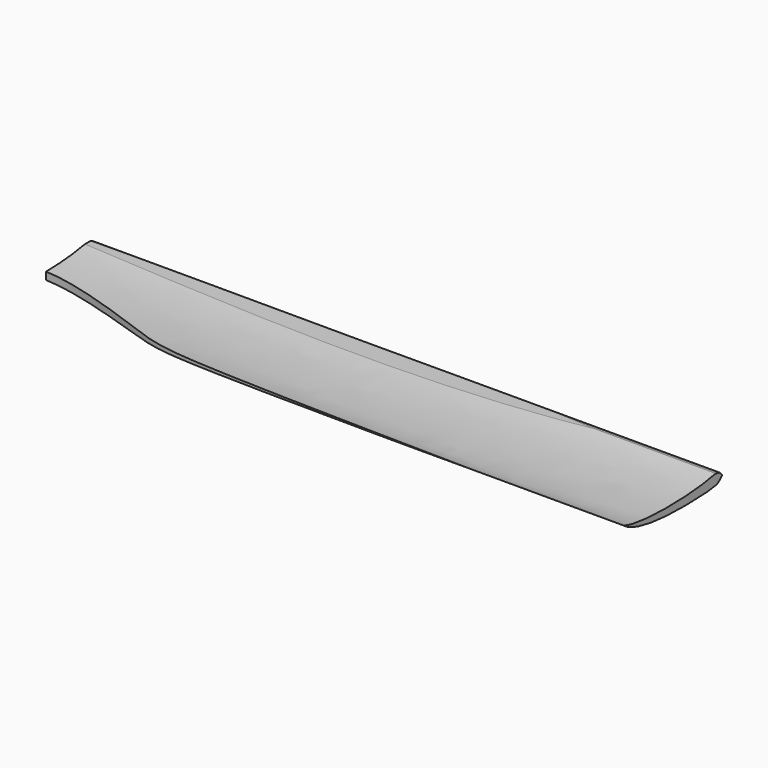
from build123d import *

# Parameters (mm, degrees)
F0_W      = 250
F0_H      = 10
F1_DEPTH  = 50
F3_DEPTH  = 30
F5_DEPTH  = 250
F7_DEPTH  = 250
F8_DEPTH  = 60
F10_DEPTH = 25
F11_DEPTH = 60


with BuildPart() as f1:
    # F0 (on Front) → F1 (new body)
    with BuildSketch(Plane.XZ):
        with Locations((-125, -0.8841458522)):
            Rectangle(F0_W, F0_H)
    extrude(amount=F1_DEPTH)

    # F2 (on Front) → F3 (cut)
    with BuildSketch(Plane.XZ):
        with BuildLine():
            Line((-313.2871612906, 5.0173905069), (-313.2871612906, 0))
            add(Edge.make_bspline(
                [(-313.2871612906, 0), (-305.7408024233, 0.2490956721), (-53.1240111215, -4.4060569761), (63.1468826879, 9.0389913046), (-305.0592132912, 4.2141648523), (-313.2871612906, 5.0173905069)],
                knots=[0, 0, 0, 0, 0.4110714895, 0.5621074239, 0.9930860809, 0.9930860809, 0.9930860809, 0.9930860809], degree=3))
        make_face()
        with BuildLine():
            add(Edge.make_bspline(
                [(-313.2871612906, 5.0173905069), (-313.4191570769, 5.0302761501), (-313.4831006394, 5.044287986), (-313.4769124275, 5.0594728428)],
                knots=[0.9930860809, 0.9930860809, 0.9930860809, 0.9930860809, 1, 1, 1, 1], degree=3))
            Line((-313.2871612906, 5.0173905069), (-313.2871612906, 8.698137477))
            Line((-313.2871612906, 8.698137477), (-313.4769124275, 5.0594728428))
        make_face()
    extrude(amount=F3_DEPTH, mode=Mode.SUBTRACT)

    # F4 (on Right) → F5 (intersect)
    with BuildSketch(Plane.YZ):
        with BuildLine():
            Line((0.5672006129, -1.3385175809), (0.1652306632, 0.2717507569))
            add(Edge.make_bspline(
                [(0.1652306632, 0.2717507569), (-3.0391772862, -0.1480424546), (-12.0919650314, -2.8128463431), (-42.1130539169, -2.9590662558), (-49.4042519617, 0)],
                knots=[0, 0, 0, 0, 0.3735616657, 1, 1, 1, 1], degree=3))
            add(Edge.make_bspline(
                [(0.6500760171, -3.4983696098), (-2.7817302159, -4.6583340632), (-10.9384602329, -5.8049870315), (-42.3045310889, -5.708930743), (-49.4042519617, 0)],
                knots=[0, 0, 0, 0, 0.3661243195, 1, 1, 1, 1], degree=3))
            Line((0.6500760171, -3.4983696098), (0.5672006129, -1.3385175809))
        make_face()
    extrude(amount=-F5_DEPTH, mode=Mode.INTERSECT)

    # F6 (on Right) → F7 (cut)
    with BuildSketch(Plane.YZ):
        with BuildLine():
            add(Edge.make_bspline(
                [(-0.3713592388, -2.284798827), (-0.2241532093, -2.2148044468), (-0.0823320886, -2.24440747), (0, -2.1551709748)],
                knots=[0.8126011445, 0.8126011445, 0.8126011445, 0.8126011445, 1, 1, 1, 1], degree=3))
            add(Edge.make_bspline(
                [(0, -2.1551709748), (-0.329754515, -2.1314787293), (-0.7120324277, -1.8268609189), (-0.9275754571, -1.5570607049)],
                knots=[0, 0, 0, 0, 0.1014973216, 0.1014973216, 0.1014973216, 0.1014973216], degree=3))
            add(Edge.make_bspline(
                [(-0.5537458841, -2.0746981376), (-0.6252984398, -1.9910490784), (-0.6912669675, -1.7880899452), (-0.8970043195, -1.6468032305), (-0.9275754571, -1.5570607049)],
                knots=[0.3180376428, 0.3180376428, 0.3180376428, 0.3180376428, 0.6602872495, 1, 1, 1, 1], degree=3))
            add(Edge.make_bspline(
                [(-0.3713592388, -2.284798827), (-0.3875660997, -2.2144380571), (-0.4872552126, -2.1524295626), (-0.5537458841, -2.0746981376)],
                knots=[0, 0, 0, 0, 0.3180376428, 0.3180376428, 0.3180376428, 0.3180376428], degree=3))
        make_face()
        with BuildLine():
            add(Edge.make_bspline(
                [(0, -2.1551709748), (0.0470843515, -2.1525380743), (0.0954787204, -2.1497884688), (0.1445713973, -2.1472855941)],
                knots=[0, 0, 0, 0, 0.0270402164, 0.0270402164, 0.0270402164, 0.0270402164], degree=3))
            add(Edge.make_bspline(
                [(0.1445713973, -2.1472855941), (0.0972920511, -2.1559836171), (0.0492313889, -2.1587081581), (0, -2.1551709748)],
                knots=[0.9848467454, 0.9848467454, 0.9848467454, 0.9848467454, 1, 1, 1, 1], degree=3))
        make_face()
        with BuildLine():
            add(Edge.make_bspline(
                [(0.1445713973, -2.1472855941), (0.0972920511, -2.1559836171), (0.0492313889, -2.1587081581), (0, -2.1551709748)],
                knots=[0.9848467454, 0.9848467454, 0.9848467454, 0.9848467454, 1, 1, 1, 1], degree=3))
            add(Edge.make_bspline(
                [(-0.3713592388, -2.284798827), (-0.2241532093, -2.2148044468), (-0.0823320886, -2.24440747), (0, -2.1551709748)],
                knots=[0.8126011445, 0.8126011445, 0.8126011445, 0.8126011445, 1, 1, 1, 1], degree=3))
            add(Edge.make_bspline(
                [(-0.4921774922, -2.3621015913), (-0.4512225519, -2.3298430813), (-0.4110947157, -2.3036924829), (-0.3713592388, -2.284798827)],
                knots=[0.7620163762, 0.7620163762, 0.7620163762, 0.7620163762, 0.8126011445, 0.8126011445, 0.8126011445, 0.8126011445], degree=3))
            add(Edge.make_bspline(
                [(-3.1840484364, -4.6814284005), (-3.0055224359, -4.4249821283), (-1.4635640249, -3.672642383), (-0.7639363061, -2.5761547519), (-0.4921774922, -2.3621015913)],
                knots=[0, 0, 0, 0, 0.4263582957, 0.7620163762, 0.7620163762, 0.7620163762, 0.7620163762], degree=3))
            add(Edge.make_bspline(
                [(0.1445713973, -2.1472855941), (0.4781031282, -2.1302812627), (1.1300747826, -2.1202709661), (1.4167482192, -2.8884793386), (-0.5860592872, -4.3606955567), (-2.8324278052, -4.9287898784), (-3.1840484364, -4.6814284005)],
                knots=[0.0270402164, 0.0270402164, 0.0270402164, 0.0270402164, 0.2107492894, 0.3545004907, 0.6749045556, 1, 1, 1, 1], degree=3))
        make_face()
        with BuildLine():
            add(Edge.make_bspline(
                [(0, -2.1551709748), (-0.329754515, -2.1314787293), (-0.7120324277, -1.8268609189), (-0.9275754571, -1.5570607049)],
                knots=[0, 0, 0, 0, 0.1014973216, 0.1014973216, 0.1014973216, 0.1014973216], degree=3))
            add(Edge.make_bspline(
                [(0, -2.1551709748), (0.0470843515, -2.1525380743), (0.0954787204, -2.1497884688), (0.1445713973, -2.1472855941)],
                knots=[0, 0, 0, 0, 0.0270402164, 0.0270402164, 0.0270402164, 0.0270402164], degree=3))
            add(Edge.make_bspline(
                [(-0.9275754571, -1.5570607049), (-1.122131781, -1.3135300375), (-1.2849738501, -0.7167346625), (-5.9739971148, -0.3185463772), (-1.2349744114, 2.4740546969), (3.3251523519, 2.2599980845), (1.1921011598, -1.2647816461), (0.4471431263, -2.091621206), (0.1445713973, -2.1472855941)],
                knots=[0.1014973216, 0.1014973216, 0.1014973216, 0.1014973216, 0.1931121877, 0.3556083607, 0.5385432189, 0.7178468592, 0.8878710721, 0.9848467454, 0.9848467454, 0.9848467454, 0.9848467454], degree=3))
        make_face()
        with BuildLine():
            add(Edge.make_bspline(
                [(-0.4921774922, -2.3621015913), (-0.4512225519, -2.3298430813), (-0.4110947157, -2.3036924829), (-0.3713592388, -2.284798827)],
                knots=[0.7620163762, 0.7620163762, 0.7620163762, 0.7620163762, 0.8126011445, 0.8126011445, 0.8126011445, 0.8126011445], degree=3))
            add(Edge.make_bspline(
                [(-0.3713592388, -2.284798827), (-0.3875660997, -2.2144380571), (-0.4872552126, -2.1524295626), (-0.5537458841, -2.0746981376)],
                knots=[0, 0, 0, 0, 0.3180376428, 0.3180376428, 0.3180376428, 0.3180376428], degree=3))
            Line((-0.5537458841, -2.0746981376), (-0.4921774922, -2.3621015913))
        make_face()
    extrude(amount=-F7_DEPTH, mode=Mode.SUBTRACT)

    # F6 (on Right) → F8 (cut)
    with BuildSketch(Plane.YZ):
        with BuildLine():
            add(Edge.make_bspline(
                [(-0.3713592388, -2.284798827), (-0.2241532093, -2.2148044468), (-0.0823320886, -2.24440747), (0, -2.1551709748)],
                knots=[0.8126011445, 0.8126011445, 0.8126011445, 0.8126011445, 1, 1, 1, 1], degree=3))
            add(Edge.make_bspline(
                [(0, -2.1551709748), (-0.329754515, -2.1314787293), (-0.7120324277, -1.8268609189), (-0.9275754571, -1.5570607049)],
                knots=[0, 0, 0, 0, 0.1014973216, 0.1014973216, 0.1014973216, 0.1014973216], degree=3))
            add(Edge.make_bspline(
                [(-0.5537458841, -2.0746981376), (-0.6252984398, -1.9910490784), (-0.6912669675, -1.7880899452), (-0.8970043195, -1.6468032305), (-0.9275754571, -1.5570607049)],
                knots=[0.3180376428, 0.3180376428, 0.3180376428, 0.3180376428, 0.6602872495, 1, 1, 1, 1], degree=3))
            add(Edge.make_bspline(
                [(-0.3713592388, -2.284798827), (-0.3875660997, -2.2144380571), (-0.4872552126, -2.1524295626), (-0.5537458841, -2.0746981376)],
                knots=[0, 0, 0, 0, 0.3180376428, 0.3180376428, 0.3180376428, 0.3180376428], degree=3))
        make_face()
        with BuildLine():
            add(Edge.make_bspline(
                [(0, -2.1551709748), (0.0470843515, -2.1525380743), (0.0954787204, -2.1497884688), (0.1445713973, -2.1472855941)],
                knots=[0, 0, 0, 0, 0.0270402164, 0.0270402164, 0.0270402164, 0.0270402164], degree=3))
            add(Edge.make_bspline(
                [(0.1445713973, -2.1472855941), (0.0972920511, -2.1559836171), (0.0492313889, -2.1587081581), (0, -2.1551709748)],
                knots=[0.9848467454, 0.9848467454, 0.9848467454, 0.9848467454, 1, 1, 1, 1], degree=3))
        make_face()
        with BuildLine():
            add(Edge.make_bspline(
                [(0.1445713973, -2.1472855941), (0.0972920511, -2.1559836171), (0.0492313889, -2.1587081581), (0, -2.1551709748)],
                knots=[0.9848467454, 0.9848467454, 0.9848467454, 0.9848467454, 1, 1, 1, 1], degree=3))
            add(Edge.make_bspline(
                [(-0.3713592388, -2.284798827), (-0.2241532093, -2.2148044468), (-0.0823320886, -2.24440747), (0, -2.1551709748)],
                knots=[0.8126011445, 0.8126011445, 0.8126011445, 0.8126011445, 1, 1, 1, 1], degree=3))
            add(Edge.make_bspline(
                [(-0.4921774922, -2.3621015913), (-0.4512225519, -2.3298430813), (-0.4110947157, -2.3036924829), (-0.3713592388, -2.284798827)],
                knots=[0.7620163762, 0.7620163762, 0.7620163762, 0.7620163762, 0.8126011445, 0.8126011445, 0.8126011445, 0.8126011445], degree=3))
            add(Edge.make_bspline(
                [(-3.1840484364, -4.6814284005), (-3.0055224359, -4.4249821283), (-1.4635640249, -3.672642383), (-0.7639363061, -2.5761547519), (-0.4921774922, -2.3621015913)],
                knots=[0, 0, 0, 0, 0.4263582957, 0.7620163762, 0.7620163762, 0.7620163762, 0.7620163762], degree=3))
            add(Edge.make_bspline(
                [(0.1445713973, -2.1472855941), (0.4781031282, -2.1302812627), (1.1300747826, -2.1202709661), (1.4167482192, -2.8884793386), (-0.5860592872, -4.3606955567), (-2.8324278052, -4.9287898784), (-3.1840484364, -4.6814284005)],
                knots=[0.0270402164, 0.0270402164, 0.0270402164, 0.0270402164, 0.2107492894, 0.3545004907, 0.6749045556, 1, 1, 1, 1], degree=3))
        make_face()
        with BuildLine():
            add(Edge.make_bspline(
                [(0, -2.1551709748), (-0.329754515, -2.1314787293), (-0.7120324277, -1.8268609189), (-0.9275754571, -1.5570607049)],
                knots=[0, 0, 0, 0, 0.1014973216, 0.1014973216, 0.1014973216, 0.1014973216], degree=3))
            add(Edge.make_bspline(
                [(0, -2.1551709748), (0.0470843515, -2.1525380743), (0.0954787204, -2.1497884688), (0.1445713973, -2.1472855941)],
                knots=[0, 0, 0, 0, 0.0270402164, 0.0270402164, 0.0270402164, 0.0270402164], degree=3))
            add(Edge.make_bspline(
                [(-0.9275754571, -1.5570607049), (-1.122131781, -1.3135300375), (-1.2849738501, -0.7167346625), (-5.9739971148, -0.3185463772), (-1.2349744114, 2.4740546969), (3.3251523519, 2.2599980845), (1.1921011598, -1.2647816461), (0.4471431263, -2.091621206), (0.1445713973, -2.1472855941)],
                knots=[0.1014973216, 0.1014973216, 0.1014973216, 0.1014973216, 0.1931121877, 0.3556083607, 0.5385432189, 0.7178468592, 0.8878710721, 0.9848467454, 0.9848467454, 0.9848467454, 0.9848467454], degree=3))
        make_face()
        with BuildLine():
            add(Edge.make_bspline(
                [(-0.4921774922, -2.3621015913), (-0.4512225519, -2.3298430813), (-0.4110947157, -2.3036924829), (-0.3713592388, -2.284798827)],
                knots=[0.7620163762, 0.7620163762, 0.7620163762, 0.7620163762, 0.8126011445, 0.8126011445, 0.8126011445, 0.8126011445], degree=3))
            add(Edge.make_bspline(
                [(-0.3713592388, -2.284798827), (-0.3875660997, -2.2144380571), (-0.4872552126, -2.1524295626), (-0.5537458841, -2.0746981376)],
                knots=[0, 0, 0, 0, 0.3180376428, 0.3180376428, 0.3180376428, 0.3180376428], degree=3))
            Line((-0.5537458841, -2.0746981376), (-0.4921774922, -2.3621015913))
        make_face()
    extrude(amount=-F8_DEPTH, mode=Mode.SUBTRACT)

    # F9 (on Top) → F10 (cut)
    with BuildSketch(Plane.XY):
        with BuildLine():
            add(Edge.make_bspline(
                [(-56.8262115121, -50.0726350397), (-54.0441875705, -48.7490632239), (-187.4004746082, -46.842235401), (-199.3512918879, -37.8274652783), (-273.5120374225, -13.0599144802), (-252.6334265377, -49.7966928991), (-249.180515691, -52.7649299347), (-237.7654494775, -53.9858025132), (-60.2588532543, -51.7057438695), (-56.8262115121, -50.0726350397)],
                knots=[0, 0, 0, 0, 0.2258560561, 0.3506417657, 0.4998497255, 0.6002929057, 0.6426859144, 0.7213241359, 1, 1, 1, 1], degree=3))
        make_face()
    extrude(amount=-F10_DEPTH, mode=Mode.SUBTRACT)

    # F6 (on Right) → F11 (cut)
    with BuildSketch(Plane.YZ):
        with BuildLine():
            add(Edge.make_bspline(
                [(-0.3713592388, -2.284798827), (-0.2241532093, -2.2148044468), (-0.0823320886, -2.24440747), (0, -2.1551709748)],
                knots=[0.8126011445, 0.8126011445, 0.8126011445, 0.8126011445, 1, 1, 1, 1], degree=3))
            add(Edge.make_bspline(
                [(0, -2.1551709748), (-0.329754515, -2.1314787293), (-0.7120324277, -1.8268609189), (-0.9275754571, -1.5570607049)],
                knots=[0, 0, 0, 0, 0.1014973216, 0.1014973216, 0.1014973216, 0.1014973216], degree=3))
            add(Edge.make_bspline(
                [(-0.5537458841, -2.0746981376), (-0.6252984398, -1.9910490784), (-0.6912669675, -1.7880899452), (-0.8970043195, -1.6468032305), (-0.9275754571, -1.5570607049)],
                knots=[0.3180376428, 0.3180376428, 0.3180376428, 0.3180376428, 0.6602872495, 1, 1, 1, 1], degree=3))
            add(Edge.make_bspline(
                [(-0.3713592388, -2.284798827), (-0.3875660997, -2.2144380571), (-0.4872552126, -2.1524295626), (-0.5537458841, -2.0746981376)],
                knots=[0, 0, 0, 0, 0.3180376428, 0.3180376428, 0.3180376428, 0.3180376428], degree=3))
        make_face()
        with BuildLine():
            add(Edge.make_bspline(
                [(0, -2.1551709748), (0.0470843515, -2.1525380743), (0.0954787204, -2.1497884688), (0.1445713973, -2.1472855941)],
                knots=[0, 0, 0, 0, 0.0270402164, 0.0270402164, 0.0270402164, 0.0270402164], degree=3))
            add(Edge.make_bspline(
                [(0.1445713973, -2.1472855941), (0.0972920511, -2.1559836171), (0.0492313889, -2.1587081581), (0, -2.1551709748)],
                knots=[0.9848467454, 0.9848467454, 0.9848467454, 0.9848467454, 1, 1, 1, 1], degree=3))
        make_face()
        with BuildLine():
            add(Edge.make_bspline(
                [(0.1445713973, -2.1472855941), (0.0972920511, -2.1559836171), (0.0492313889, -2.1587081581), (0, -2.1551709748)],
                knots=[0.9848467454, 0.9848467454, 0.9848467454, 0.9848467454, 1, 1, 1, 1], degree=3))
            add(Edge.make_bspline(
                [(-0.3713592388, -2.284798827), (-0.2241532093, -2.2148044468), (-0.0823320886, -2.24440747), (0, -2.1551709748)],
                knots=[0.8126011445, 0.8126011445, 0.8126011445, 0.8126011445, 1, 1, 1, 1], degree=3))
            add(Edge.make_bspline(
                [(-0.4921774922, -2.3621015913), (-0.4512225519, -2.3298430813), (-0.4110947157, -2.3036924829), (-0.3713592388, -2.284798827)],
                knots=[0.7620163762, 0.7620163762, 0.7620163762, 0.7620163762, 0.8126011445, 0.8126011445, 0.8126011445, 0.8126011445], degree=3))
            add(Edge.make_bspline(
                [(-3.1840484364, -4.6814284005), (-3.0055224359, -4.4249821283), (-1.4635640249, -3.672642383), (-0.7639363061, -2.5761547519), (-0.4921774922, -2.3621015913)],
                knots=[0, 0, 0, 0, 0.4263582957, 0.7620163762, 0.7620163762, 0.7620163762, 0.7620163762], degree=3))
            add(Edge.make_bspline(
                [(0.1445713973, -2.1472855941), (0.4781031282, -2.1302812627), (1.1300747826, -2.1202709661), (1.4167482192, -2.8884793386), (-0.5860592872, -4.3606955567), (-2.8324278052, -4.9287898784), (-3.1840484364, -4.6814284005)],
                knots=[0.0270402164, 0.0270402164, 0.0270402164, 0.0270402164, 0.2107492894, 0.3545004907, 0.6749045556, 1, 1, 1, 1], degree=3))
        make_face()
        with BuildLine():
            add(Edge.make_bspline(
                [(0, -2.1551709748), (-0.329754515, -2.1314787293), (-0.7120324277, -1.8268609189), (-0.9275754571, -1.5570607049)],
                knots=[0, 0, 0, 0, 0.1014973216, 0.1014973216, 0.1014973216, 0.1014973216], degree=3))
            add(Edge.make_bspline(
                [(0, -2.1551709748), (0.0470843515, -2.1525380743), (0.0954787204, -2.1497884688), (0.1445713973, -2.1472855941)],
                knots=[0, 0, 0, 0, 0.0270402164, 0.0270402164, 0.0270402164, 0.0270402164], degree=3))
            add(Edge.make_bspline(
                [(-0.9275754571, -1.5570607049), (-1.122131781, -1.3135300375), (-1.2849738501, -0.7167346625), (-5.9739971148, -0.3185463772), (-1.2349744114, 2.4740546969), (3.3251523519, 2.2599980845), (1.1921011598, -1.2647816461), (0.4471431263, -2.091621206), (0.1445713973, -2.1472855941)],
                knots=[0.1014973216, 0.1014973216, 0.1014973216, 0.1014973216, 0.1931121877, 0.3556083607, 0.5385432189, 0.7178468592, 0.8878710721, 0.9848467454, 0.9848467454, 0.9848467454, 0.9848467454], degree=3))
        make_face()
        with BuildLine():
            add(Edge.make_bspline(
                [(-0.4921774922, -2.3621015913), (-0.4512225519, -2.3298430813), (-0.4110947157, -2.3036924829), (-0.3713592388, -2.284798827)],
                knots=[0.7620163762, 0.7620163762, 0.7620163762, 0.7620163762, 0.8126011445, 0.8126011445, 0.8126011445, 0.8126011445], degree=3))
            add(Edge.make_bspline(
                [(-0.3713592388, -2.284798827), (-0.3875660997, -2.2144380571), (-0.4872552126, -2.1524295626), (-0.5537458841, -2.0746981376)],
                knots=[0, 0, 0, 0, 0.3180376428, 0.3180376428, 0.3180376428, 0.3180376428], degree=3))
            Line((-0.5537458841, -2.0746981376), (-0.4921774922, -2.3621015913))
        make_face()
    extrude(amount=-F11_DEPTH, mode=Mode.SUBTRACT)


solid = f1.part
